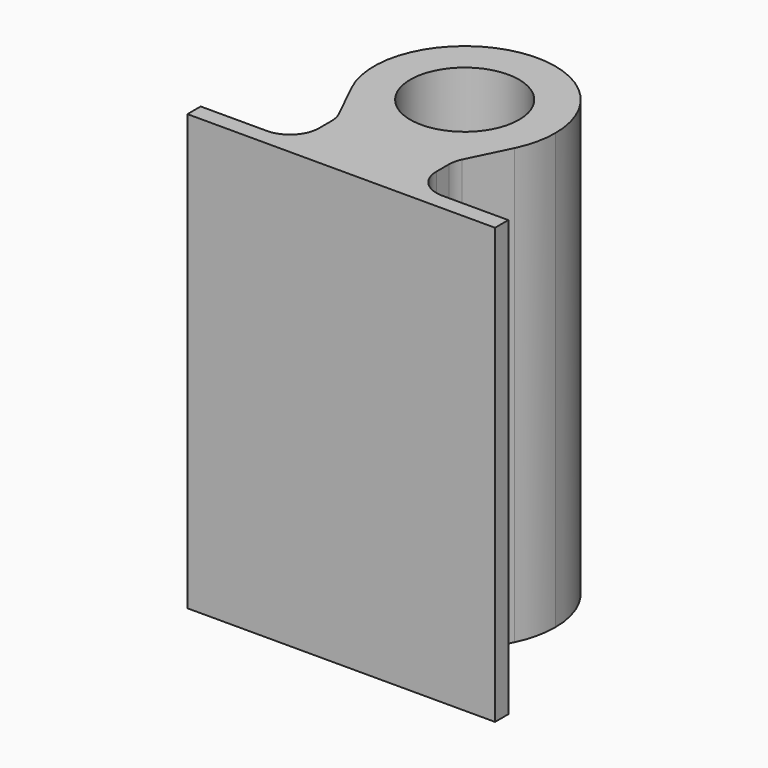
from build123d import *

# Parameters (mm, degrees)
F0_R     = 9.525
F1_DEPTH = 76.2


with BuildPart() as f1:
    # F0 (on Top) → F1 (new body)
    with BuildSketch(Plane.XY):
        with BuildLine():
            ThreePointArc((14.261609, -6.972958), (0, -15.875), (-14.261609, -6.972958))
            Line((-14.261609, -6.972958), (-10.796512, -14.06003))
            ThreePointArc((-10.796512, -14.06003), (-10.410981, -15.146229), (-10.280226, -16.291377))
            Line((-10.280226, -16.291377), (-10.280226, -19.044231))
            ThreePointArc((-10.280226, -19.044231), (-11.768124, -22.636333), (-15.360226, -24.124231))
            Line((-15.360226, -24.124231), (-26.940812, -24.124231))
            Line((-26.940812, -24.124231), (-26.940812, -27.02905))
            Line((-26.940812, -27.02905), (26.940812, -27.02905))
            Line((26.940812, -27.02905), (26.940812, -24.124231))
            Line((26.940812, -24.124231), (15.360226, -24.124231))
            ThreePointArc((15.360226, -24.124231), (11.768124, -22.636333), (10.280226, -19.044231))
            Line((10.280226, -19.044231), (10.280226, -16.291377))
            ThreePointArc((10.280226, -16.291377), (10.410981, -15.146229), (10.796512, -14.06003))
            Line((10.796512, -14.06003), (14.261609, -6.972958))
        make_face()
        with BuildLine():
            ThreePointArc((14.261609, -6.972958), (15.466394, -3.578588), (15.875, 0))
            ThreePointArc((15.875, 0), (-3.578588, 15.466394), (-14.261609, -6.972958))
            ThreePointArc((-14.261609, -6.972958), (0, -15.875), (14.261609, -6.972958))
        make_face()
        Circle(F0_R, mode=Mode.SUBTRACT)
    extrude(amount=F1_DEPTH)


solid = f1.part
